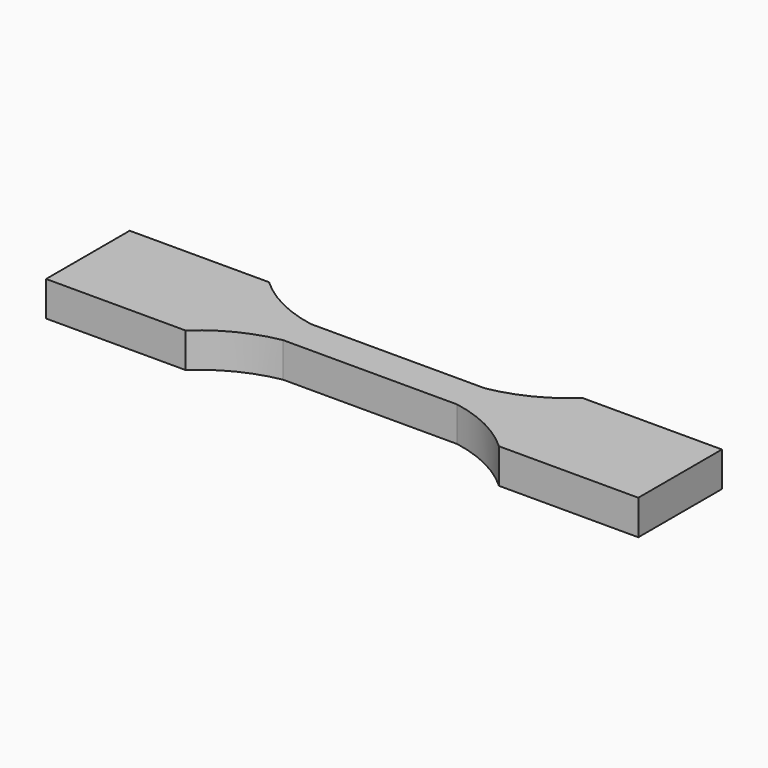
from build123d import *

# Parameters (mm, degrees)
F1_DEPTH = 10
F2_ANGLE = 90


with BuildPart() as f1:
    # F0 (on Top) → F1 (new body)
    with BuildSketch(Plane.XY):
        with BuildLine():
            Line((-15, -85), (15, -85))
            Line((15, -85), (15, -45))
            ThreePointArc((15, -45), (8.5740404346, -35.7129797827), (5, -25))
            Line((5, -25), (5, 25))
            ThreePointArc((5, 25), (8.5740404346, 35.7129797827), (15, 45))
            Line((15, 45), (15, 85))
            Line((15, 85), (-15, 85))
            Line((-15, 85), (-15, 45))
            ThreePointArc((-15, 45), (-8.5740404346, 35.7129797827), (-5, 25))
            Line((-5, 25), (-5, -25))
            ThreePointArc((-5, -25), (-8.5740404346, -35.7129797827), (-15, -45))
            Line((-15, -45), (-15, -85))
        make_face()
    extrude(amount=F1_DEPTH)


with BuildPart() as f1_1:
    # F2: moved
    add(f1.part.rotate(Axis((-15, -85, 5), (0, 0, -1)), F2_ANGLE))


with BuildPart() as f1_2:
    # F3: moved
    add(f1_1.part.moved(Location((-70, 100, 0))))


with BuildPart() as f1_3:
    # F4: moved
    add(f1_2.part.moved(Location((-200, 0, 0))))


solid = f1_3.part
